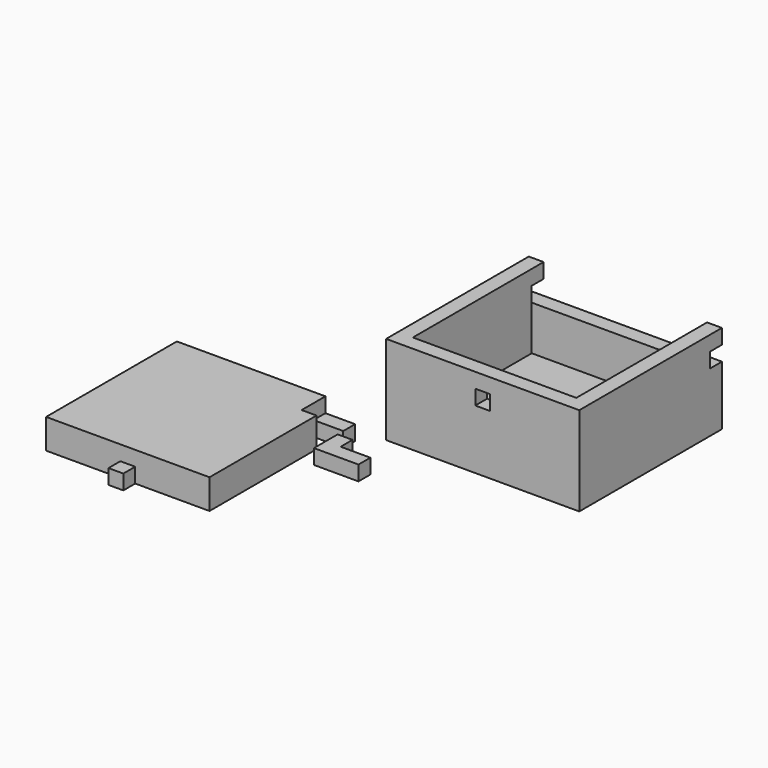
from build123d import *

# Parameters (mm, degrees)
F5_W      = 55
F5_H      = 50
F6_DEPTH  = 5
F5_W_2    = 65
F5_H_2    = 60
F7_DEPTH  = 30
F9_DEPTH  = 5
F10_DEPTH = 10
F11_DEPTH = 5
F5_W_3    = 10
F5_H_3    = 5
F5_W_4    = 5
F12_DEPTH = 5
F13_W     = 5
F13_H     = 5
F14_DEPTH = 5
F15_DEPTH = 5


with BuildPart() as f6:
    # F5 (on Top) → F6 (new body)
    with BuildSketch(Plane.XY):
        with Locations((32.5, 30)):
            Rectangle(F5_W, F5_H)
    extrude(amount=F6_DEPTH)

    # F5 (on Top) → F7 (join)
    with BuildSketch(Plane.XY):
        with Locations((32.5, 30)):
            Rectangle(F5_W_2, F5_H_2)
        with Locations((32.5, 30)):
            Rectangle(F5_W, F5_H, mode=Mode.SUBTRACT)
    extrude(amount=F7_DEPTH)

    # F8 (on face) → F9 (cut)
    with BuildSketch(Plane(origin=(0, 60, 0), x_dir=(-1, 0, 0), z_dir=(0, 1, 0))):
        Polygon((-60, 25), (-65, 25), (-65, 20), (0, 20), (0, 25), (-5, 25), (-5, 30), (-60, 30), align=None)
    extrude(amount=-F9_DEPTH, mode=Mode.SUBTRACT)

    # F13 (on face) → F14 (cut, through all)
    with BuildSketch(Plane.XZ):
        with Locations((32.5, 22.5)):
            Rectangle(F13_W, F13_H)
    extrude(amount=-F14_DEPTH, mode=Mode.SUBTRACT)


with BuildPart() as f10:
    # F5 (on Top) → F10 (new body)
    with BuildSketch(Plane.XY):
        Polygon((-16.0336927418, -5.4975085858), (-66.0336927418, -5.4975085858), (-66.0336927418, -10.4975085858), (-66.0336927418, -60.4975085858), (-41.0336927418, -60.4975085858), (-36.0336927418, -60.4975085858), (-11.0336927418, -60.4975085858), (-11.0336927418, -15.4975085858), (-16.0336927418, -15.4975085858), (-16.0336927418, -10.4975085858), align=None)
        Polygon((-61.0336927418, -55.4975085858), (-61.0336927418, -10.4975085858), (-21.0336927418, -10.4975085858), (-21.0336927418, -20.4975085858), (-16.0336927418, -20.4975085858), (-16.0336927418, -55.4975085858), align=None, mode=Mode.SUBTRACT)
        Polygon((-21.0336927418, -10.4975085858), (-61.0336927418, -10.4975085858), (-61.0336927418, -55.4975085858), (-16.0336927418, -55.4975085858), (-16.0336927418, -20.4975085858), (-21.0336927418, -20.4975085858), align=None)
    extrude(amount=F10_DEPTH)

    # F5 (on Top) → F11 (cut)
    with BuildSketch(Plane.XY):
        Polygon((-21.0336927418, -10.4975085858), (-61.0336927418, -10.4975085858), (-61.0336927418, -55.4975085858), (-16.0336927418, -55.4975085858), (-16.0336927418, -20.4975085858), (-21.0336927418, -20.4975085858), align=None)
    extrude(amount=F11_DEPTH, mode=Mode.SUBTRACT)

    # F5 (on Top) → F12 (join)
    with BuildSketch(Plane.XY):
        with Locations((-11.0336927418, -7.9975085858)):
            Rectangle(F5_W_3, F5_H_3)
        with Locations((-38.5336927418, -62.9975085858)):
            Rectangle(F5_W_4, F5_H_3)
        with Locations((-68.5336927418, -7.9975085858)):
            Rectangle(F5_W_4, F5_H_3)
    extrude(amount=F12_DEPTH)


with BuildPart() as f15:
    # F5 (on Top) → F15 (new body)
    with BuildSketch(Plane.XY):
        Polygon((-5.9894532897, -12.8913407773), (-5.9894532897, -22.8913407773), (9.0105467103, -22.8913407773), (9.0105467103, -17.8913407773), (-0.9894532897, -17.8913407773), (-0.9894532897, -12.8913407773), align=None)
    extrude(amount=F15_DEPTH)


solid = Compound([f6.part, f10.part, f15.part])
